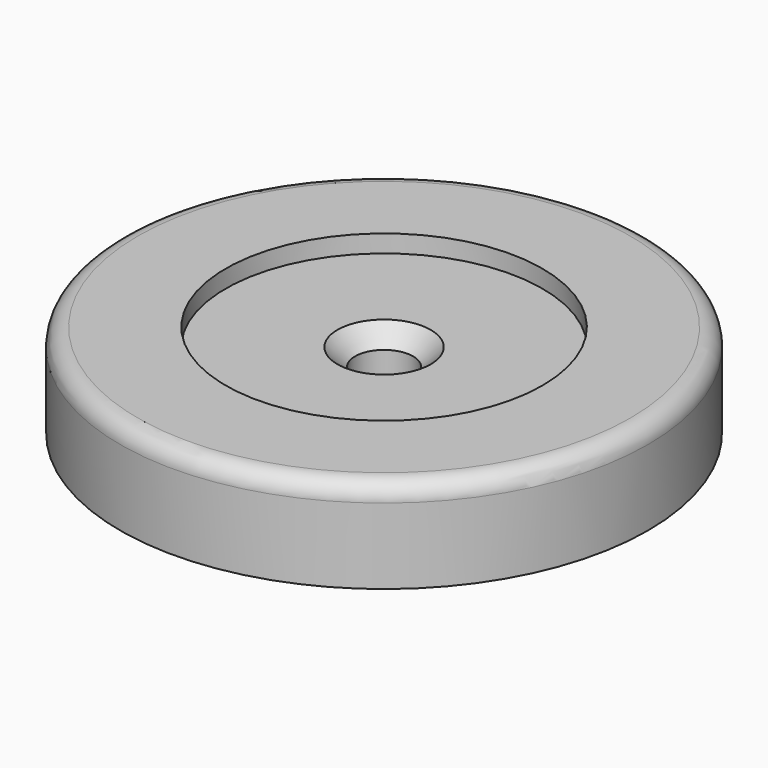
from build123d import *

# Parameters (mm, degrees)
SKETCH035_R     = 15
PAD013_DEPTH    = 5.3
SKETCH036_R     = 9
POCKET019_DEPTH = 1
SKETCH037_R     = 1.65
POCKET020_DEPTH = 5
FILLET008_R     = 1
CHAMFER003_SIZE = 1


with BuildPart() as part:
    # Sketch035 → Pad013 (new body)
    with BuildSketch(Plane.XY):
        Circle(SKETCH035_R)
    extrude(amount=PAD013_DEPTH)

    # Sketch036 → Pocket019 (cut)
    with BuildSketch(Plane.XY.offset(5.3)):
        Circle(SKETCH036_R)
    extrude(amount=-POCKET019_DEPTH, mode=Mode.SUBTRACT)

    # Sketch037 (on Face5 of Pocket019) → Pocket020 (cut)
    with BuildSketch(Plane.XY.offset(4.3)):
        Circle(SKETCH037_R)
    extrude(amount=-POCKET020_DEPTH, mode=Mode.SUBTRACT)

    # Fillet008
    fillet008_edges = [part.edges().sort_by_distance(p)[0] for p in [
        (-15, 0, 5.3),
    ]]
    fillet(fillet008_edges, radius=FILLET008_R)

    # Chamfer003
    chamfer003_edges = [part.edges().sort_by_distance(p)[0] for p in [
        (-1.65, 0, 4.3),
    ]]
    chamfer(chamfer003_edges, length=CHAMFER003_SIZE)


with BuildPart() as part_1:
    # Body009 placement: moved
    add(part.part.moved(Location((59.5, 37.5, 85))))


solid = part_1.part
